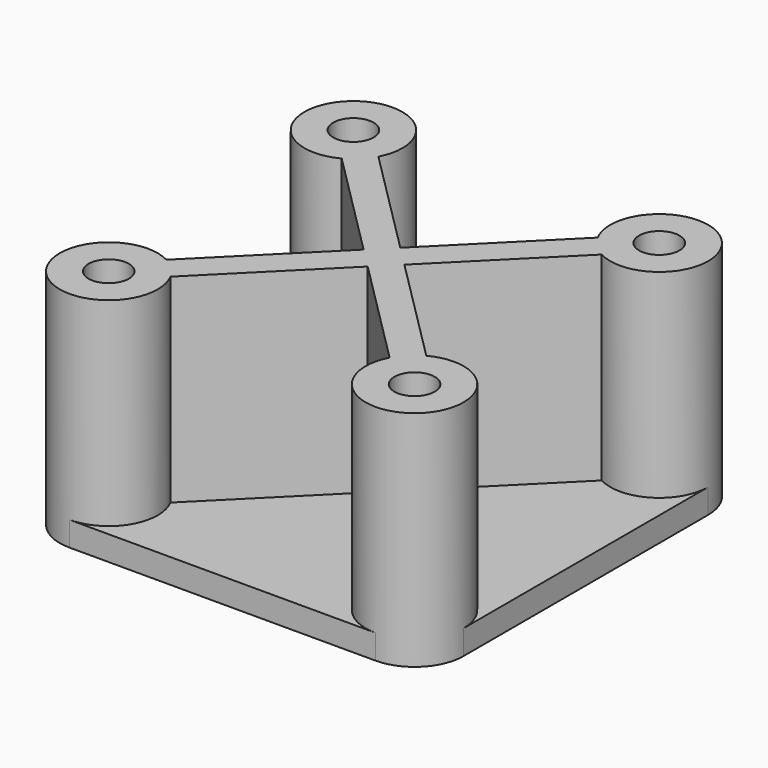
from build123d import *

# Parameters (mm, degrees)
F0_R     = 1.778
F1_DEPTH = 2.159
F2_DEPTH = 19.685


with BuildPart() as f1:
    # F0 (on Top) → F1 (new body)
    with BuildSketch(Plane.XY):
        with BuildLine():
            ThreePointArc((-7.8243870362, 18.8201011431), (-9.089099955, 21.8733882242), (-12.1423870362, 23.1381011431))
            ThreePointArc((-12.1423870362, 23.1381011431), (-15.1956741174, 21.8733882242), (-16.4603870362, 18.8201011431))
            ThreePointArc((-16.4603870362, 18.8201011431), (-14.3697001784, 15.1208849874), (-10.1221748239, 15.0038377065))
            ThreePointArc((-10.1221748239, 15.0038377065), (-9.089099955, 15.7668140619), (-8.3261235997, 16.7998889307))
            ThreePointArc((-8.3261235997, 16.7998889307), (-7.9516979807, 17.779308541), (-7.8243870362, 18.8201011431))
        make_face()
        with Locations((-12.1423870362, 18.8201011431)):
            Circle(F0_R, mode=Mode.SUBTRACT)
        with BuildLine():
            ThreePointArc((19.1250129638, 18.8201011431), (17.860300045, 21.8733882242), (14.8070129638, 23.1381011431))
            ThreePointArc((14.8070129638, 23.1381011431), (11.1077968081, 21.0474142853), (10.9907495272, 16.7998889307))
            ThreePointArc((10.9907495272, 16.7998889307), (11.7537258826, 15.7668140619), (12.7868007515, 15.0038377065))
            ThreePointArc((12.7868007515, 15.0038377065), (17.034326106, 15.1208849874), (19.1250129638, 18.8201011431))
        make_face()
        with Locations((14.8070129638, 18.8201011431)):
            Circle(F0_R, mode=Mode.SUBTRACT)
        with BuildLine():
            ThreePointArc((14.8070129638, -12.4472988569), (17.860300045, -11.1825859381), (19.1250129638, -8.1292988569))
            ThreePointArc((19.1250129638, -8.1292988569), (17.034326106, -4.4300827013), (12.7868007515, -4.3130354204))
            ThreePointArc((12.7868007515, -4.3130354204), (11.7537258826, -5.0760117758), (10.9907495272, -6.1090866446))
            ThreePointArc((10.9907495272, -6.1090866446), (11.1077968081, -10.3566119992), (14.8070129638, -12.4472988569))
        make_face()
        with Locations((14.8070129638, -8.1292988569)):
            Circle(F0_R, mode=Mode.SUBTRACT)
        with BuildLine():
            ThreePointArc((-10.1221748239, -4.3130354204), (-14.3697001784, -4.4300827013), (-16.4603870362, -8.1292988569))
            ThreePointArc((-16.4603870362, -8.1292988569), (-15.1956741174, -11.1825859381), (-12.1423870362, -12.4472988569))
            ThreePointArc((-12.1423870362, -12.4472988569), (-9.089099955, -11.1825859381), (-7.8243870362, -8.1292988569))
            ThreePointArc((-7.8243870362, -8.1292988569), (-7.9516979807, -7.0885062549), (-8.3261235997, -6.1090866446))
            ThreePointArc((-8.3261235997, -6.1090866446), (-9.089099955, -5.0760117758), (-10.1221748239, -4.3130354204))
        make_face()
        with Locations((-12.1423870362, -8.1292988569)):
            Circle(F0_R, mode=Mode.SUBTRACT)
        with BuildLine():
            Line((14.8070129638, 23.1381011431), (-12.1423870362, 23.1381011431))
            ThreePointArc((-12.1423870362, 23.1381011431), (-9.089099955, 21.8733882242), (-7.8243870362, 18.8201011431))
            ThreePointArc((-7.8243870362, 18.8201011431), (-7.9516979807, 17.779308541), (-8.3261235997, 16.7998889307))
            Line((-8.3261235997, 16.7998889307), (1.3323129638, 7.1414523673))
            Line((1.3323129638, 7.1414523673), (10.9907495272, 16.7998889307))
            ThreePointArc((10.9907495272, 16.7998889307), (11.1077968081, 21.0474142853), (14.8070129638, 23.1381011431))
        make_face()
        with BuildLine():
            ThreePointArc((-10.1221748239, 15.0038377065), (-14.3697001784, 15.1208849874), (-16.4603870362, 18.8201011431))
            Line((-16.4603870362, 18.8201011431), (-16.4603870362, -8.1292988569))
            ThreePointArc((-16.4603870362, -8.1292988569), (-14.3697001784, -4.4300827013), (-10.1221748239, -4.3130354204))
            Line((-10.1221748239, -4.3130354204), (-0.4637382604, 5.3454011431))
            Line((-0.4637382604, 5.3454011431), (-10.1221748239, 15.0038377065))
        make_face()
        with BuildLine():
            ThreePointArc((-7.8243870362, -8.1292988569), (-9.089099955, -11.1825859381), (-12.1423870362, -12.4472988569))
            Line((-12.1423870362, -12.4472988569), (14.8070129638, -12.4472988569))
            ThreePointArc((14.8070129638, -12.4472988569), (11.1077968081, -10.3566119992), (10.9907495272, -6.1090866446))
            Line((10.9907495272, -6.1090866446), (1.3323129638, 3.5493499188))
            Line((1.3323129638, 3.5493499188), (-8.3261235997, -6.1090866446))
            ThreePointArc((-8.3261235997, -6.1090866446), (-7.9516979807, -7.0885062549), (-7.8243870362, -8.1292988569))
        make_face()
        with BuildLine():
            Line((19.1250129638, -8.1292988569), (19.1250129638, 18.8201011431))
            ThreePointArc((19.1250129638, 18.8201011431), (17.034326106, 15.1208849874), (12.7868007515, 15.0038377065))
            Line((12.7868007515, 15.0038377065), (3.128364188, 5.3454011431))
            Line((3.128364188, 5.3454011431), (12.7868007515, -4.3130354204))
            ThreePointArc((12.7868007515, -4.3130354204), (17.034326106, -4.4300827013), (19.1250129638, -8.1292988569))
        make_face()
        with BuildLine():
            Line((3.128364188, 5.3454011431), (1.3323129638, 3.5493499188))
            Line((1.3323129638, 3.5493499188), (10.9907495272, -6.1090866446))
            ThreePointArc((10.9907495272, -6.1090866446), (11.7537258826, -5.0760117758), (12.7868007515, -4.3130354204))
            Line((12.7868007515, -4.3130354204), (3.128364188, 5.3454011431))
        make_face()
        with BuildLine():
            ThreePointArc((-8.3261235997, 16.7998889307), (-9.089099955, 15.7668140619), (-10.1221748239, 15.0038377065))
            Line((-10.1221748239, 15.0038377065), (-0.4637382604, 5.3454011431))
            Line((-0.4637382604, 5.3454011431), (1.3323129638, 7.1414523673))
            Line((1.3323129638, 7.1414523673), (-8.3261235997, 16.7998889307))
        make_face()
        with BuildLine():
            ThreePointArc((12.7868007515, 15.0038377065), (11.7537258826, 15.7668140619), (10.9907495272, 16.7998889307))
            Line((10.9907495272, 16.7998889307), (1.3323129638, 7.1414523673))
            Line((1.3323129638, 7.1414523673), (3.128364188, 5.3454011431))
            Line((3.128364188, 5.3454011431), (12.7868007515, 15.0038377065))
        make_face()
        with BuildLine():
            Line((-0.4637382604, 5.3454011431), (-10.1221748239, -4.3130354204))
            ThreePointArc((-10.1221748239, -4.3130354204), (-9.089099955, -5.0760117758), (-8.3261235997, -6.1090866446))
            Line((-8.3261235997, -6.1090866446), (1.3323129638, 3.5493499188))
            Line((1.3323129638, 3.5493499188), (-0.4637382604, 5.3454011431))
        make_face()
        Polygon((1.3323129638, 7.1414523673), (-0.4637382604, 5.3454011431), (1.3323129638, 3.5493499188), (3.128364188, 5.3454011431), align=None)
    extrude(amount=F1_DEPTH)

    # F0 (on Top) → F2 (join)
    with BuildSketch(Plane.XY):
        with BuildLine():
            ThreePointArc((-7.8243870362, 18.8201011431), (-9.089099955, 21.8733882242), (-12.1423870362, 23.1381011431))
            ThreePointArc((-12.1423870362, 23.1381011431), (-15.1956741174, 21.8733882242), (-16.4603870362, 18.8201011431))
            ThreePointArc((-16.4603870362, 18.8201011431), (-14.3697001784, 15.1208849874), (-10.1221748239, 15.0038377065))
            ThreePointArc((-10.1221748239, 15.0038377065), (-9.089099955, 15.7668140619), (-8.3261235997, 16.7998889307))
            ThreePointArc((-8.3261235997, 16.7998889307), (-7.9516979807, 17.779308541), (-7.8243870362, 18.8201011431))
        make_face()
        with Locations((-12.1423870362, 18.8201011431)):
            Circle(F0_R, mode=Mode.SUBTRACT)
        with BuildLine():
            ThreePointArc((19.1250129638, 18.8201011431), (17.860300045, 21.8733882242), (14.8070129638, 23.1381011431))
            ThreePointArc((14.8070129638, 23.1381011431), (11.1077968081, 21.0474142853), (10.9907495272, 16.7998889307))
            ThreePointArc((10.9907495272, 16.7998889307), (11.7537258826, 15.7668140619), (12.7868007515, 15.0038377065))
            ThreePointArc((12.7868007515, 15.0038377065), (17.034326106, 15.1208849874), (19.1250129638, 18.8201011431))
        make_face()
        with Locations((14.8070129638, 18.8201011431)):
            Circle(F0_R, mode=Mode.SUBTRACT)
        with BuildLine():
            ThreePointArc((14.8070129638, -12.4472988569), (17.860300045, -11.1825859381), (19.1250129638, -8.1292988569))
            ThreePointArc((19.1250129638, -8.1292988569), (17.034326106, -4.4300827013), (12.7868007515, -4.3130354204))
            ThreePointArc((12.7868007515, -4.3130354204), (11.7537258826, -5.0760117758), (10.9907495272, -6.1090866446))
            ThreePointArc((10.9907495272, -6.1090866446), (11.1077968081, -10.3566119992), (14.8070129638, -12.4472988569))
        make_face()
        with Locations((14.8070129638, -8.1292988569)):
            Circle(F0_R, mode=Mode.SUBTRACT)
        with BuildLine():
            ThreePointArc((-10.1221748239, -4.3130354204), (-14.3697001784, -4.4300827013), (-16.4603870362, -8.1292988569))
            ThreePointArc((-16.4603870362, -8.1292988569), (-15.1956741174, -11.1825859381), (-12.1423870362, -12.4472988569))
            ThreePointArc((-12.1423870362, -12.4472988569), (-9.089099955, -11.1825859381), (-7.8243870362, -8.1292988569))
            ThreePointArc((-7.8243870362, -8.1292988569), (-7.9516979807, -7.0885062549), (-8.3261235997, -6.1090866446))
            ThreePointArc((-8.3261235997, -6.1090866446), (-9.089099955, -5.0760117758), (-10.1221748239, -4.3130354204))
        make_face()
        with Locations((-12.1423870362, -8.1292988569)):
            Circle(F0_R, mode=Mode.SUBTRACT)
        with BuildLine():
            Line((3.128364188, 5.3454011431), (1.3323129638, 3.5493499188))
            Line((1.3323129638, 3.5493499188), (10.9907495272, -6.1090866446))
            ThreePointArc((10.9907495272, -6.1090866446), (11.7537258826, -5.0760117758), (12.7868007515, -4.3130354204))
            Line((12.7868007515, -4.3130354204), (3.128364188, 5.3454011431))
        make_face()
        with BuildLine():
            Line((-0.4637382604, 5.3454011431), (-10.1221748239, -4.3130354204))
            ThreePointArc((-10.1221748239, -4.3130354204), (-9.089099955, -5.0760117758), (-8.3261235997, -6.1090866446))
            Line((-8.3261235997, -6.1090866446), (1.3323129638, 3.5493499188))
            Line((1.3323129638, 3.5493499188), (-0.4637382604, 5.3454011431))
        make_face()
        with BuildLine():
            ThreePointArc((-8.3261235997, 16.7998889307), (-9.089099955, 15.7668140619), (-10.1221748239, 15.0038377065))
            Line((-10.1221748239, 15.0038377065), (-0.4637382604, 5.3454011431))
            Line((-0.4637382604, 5.3454011431), (1.3323129638, 7.1414523673))
            Line((1.3323129638, 7.1414523673), (-8.3261235997, 16.7998889307))
        make_face()
        Polygon((1.3323129638, 7.1414523673), (-0.4637382604, 5.3454011431), (1.3323129638, 3.5493499188), (3.128364188, 5.3454011431), align=None)
        with BuildLine():
            ThreePointArc((12.7868007515, 15.0038377065), (11.7537258826, 15.7668140619), (10.9907495272, 16.7998889307))
            Line((10.9907495272, 16.7998889307), (1.3323129638, 7.1414523673))
            Line((1.3323129638, 7.1414523673), (3.128364188, 5.3454011431))
            Line((3.128364188, 5.3454011431), (12.7868007515, 15.0038377065))
        make_face()
    extrude(amount=F2_DEPTH)


solid = f1.part
